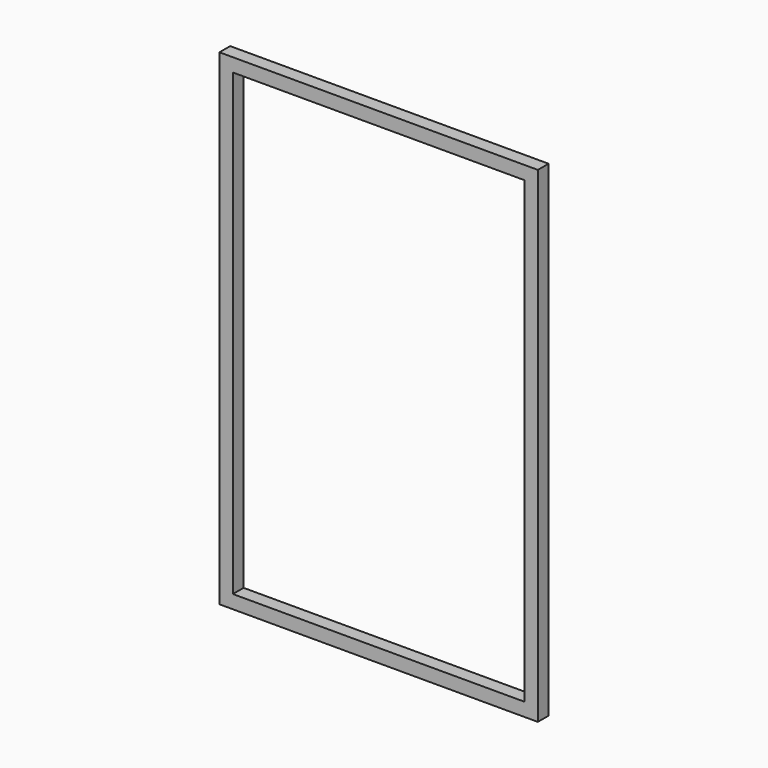
from build123d import *

# Parameters (mm, degrees)
F0_W     = 950
F0_H     = 1450
F0_W_2   = 870
F0_H_2   = 1370
F1_DEPTH = 40


with BuildPart() as f1:
    # F0 (on Front) → F1 (new body)
    with BuildSketch(Plane.XZ):
        with Locations((475, 725)):
            Rectangle(F0_W, F0_H)
        with Locations((475, 725)):
            Rectangle(F0_W_2, F0_H_2, mode=Mode.SUBTRACT)
    extrude(amount=-F1_DEPTH)


solid = f1.part
